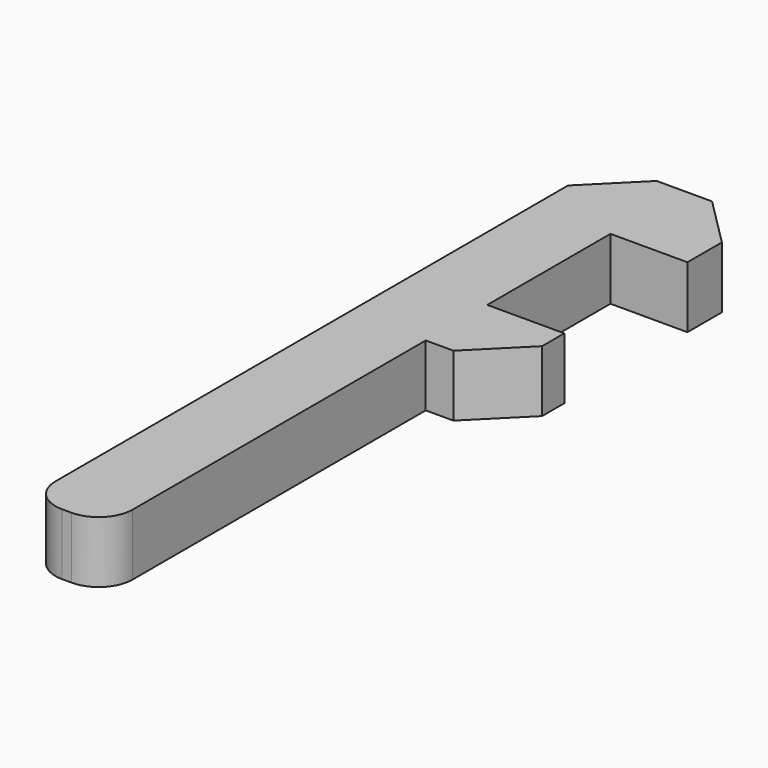
from build123d import *

# Parameters (mm, degrees)
F1_DEPTH = 2.54
F2_SIZE  = 2.032
F3_R     = 1.400292
F4_R     = 1.388776


with BuildPart() as f1:
    # F0 (on Top) → F1 (new body)
    with BuildSketch(Plane.XY):
        Polygon((3.175, 11.1125), (3.175, 14.9225), (-3.175, 14.9225), (-3.175, -14.9225), (0, -14.9225), (0, 1.5875), (3.175, 1.5875), (3.175, 4.7625), (0, 4.7625), (0, 11.1125), align=None)
    extrude(amount=F1_DEPTH)

    # F2
    f2_edges = [f1.edges().sort_by_distance(p)[0] for p in [
        (3.175, 1.5875, 1.27),
        (3.175, 14.9225, 1.27),
        (-3.175, 14.9225, 1.27),
    ]]
    chamfer(f2_edges, length=F2_SIZE)

    # F3
    f3_edges = [f1.edges().sort_by_distance(p)[0] for p in [
        (0, -14.9225, 1.27),
    ]]
    fillet(f3_edges, radius=F3_R)

    # F4
    f4_edges = [f1.edges().sort_by_distance(p)[0] for p in [
        (-3.175, -14.9225, 1.27),
    ]]
    fillet(f4_edges, radius=F4_R)


solid = f1.part
